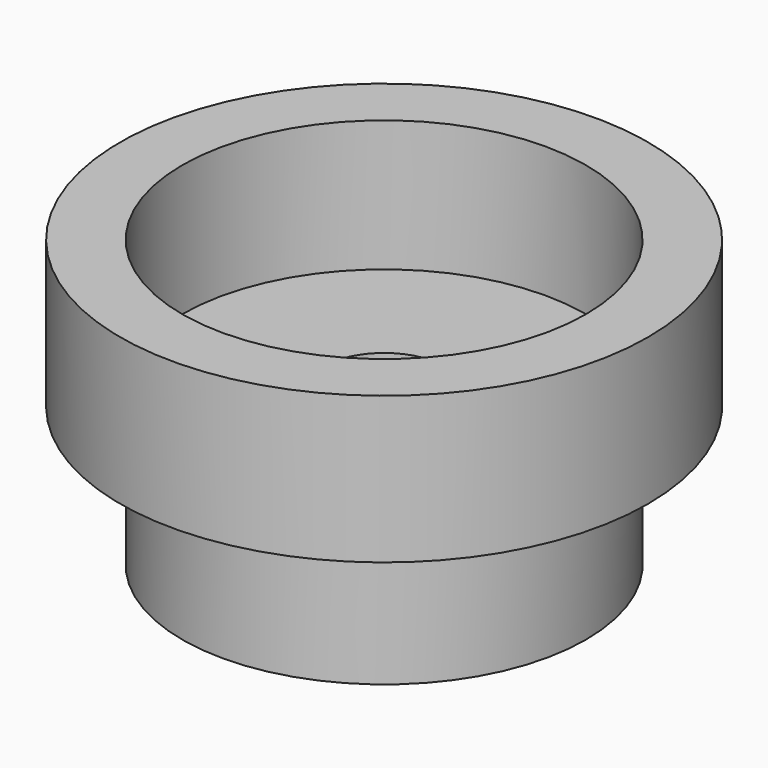
from build123d import *

# Parameters (mm, degrees)
F0_R     = 13
F0_R_2   = 3.9
F1_DEPTH = 9
F0_R_3   = 17
F2_DEPTH = 9.45
F3_DEPTH = 1


with BuildPart() as f1:
    # F0 (on Top) → F1 (new body)
    with BuildSketch(Plane.XY):
        Circle(F0_R)
        Circle(F0_R_2, mode=Mode.SUBTRACT)
    extrude(amount=-F1_DEPTH)


with BuildPart() as f2:
    # F0 (on Top) → F2 (new body)
    with BuildSketch(Plane.XY):
        Circle(F0_R_3)
        Circle(F0_R, mode=Mode.SUBTRACT)
    extrude(amount=F2_DEPTH)


with BuildPart() as f3:
    # F0 (on Top) → F3 (new body)
    with BuildSketch(Plane.XY):
        Circle(F0_R)
        Circle(F0_R_2, mode=Mode.SUBTRACT)
    extrude(amount=F3_DEPTH)


solid = Compound([f1.part, f2.part, f3.part])
